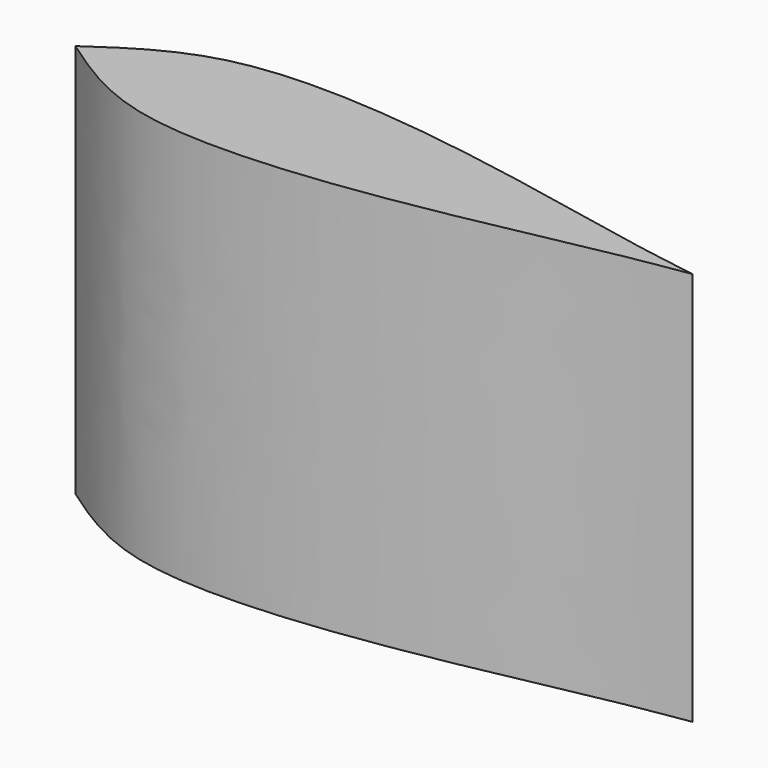
from build123d import *

# Parameters (mm, degrees)
F1_DEPTH = 80


with BuildPart() as f1:
    # F0 (on Top) → F1 (new body)
    with BuildSketch(Plane.XY):
        with BuildLine():
            add(Edge.make_bspline(
                [(-62.488052994, 0), (-55.7842902091, 4.641149541), (-39.9956720698, 15.5719268047), (7.4595234372, 11.2735993615), (44.2481001457, 2.9336430373), (57.4555526458, 0.8439100795), (62.7892017365, 0)],
                knots=[0, 0, 0, 0, 0.2264452899, 0.5333211103, 0.8115381119, 1, 1, 1, 1], degree=3))
            Line((-62.488052994, 0), (62.7892017365, 0))
        make_face()
        with BuildLine():
            Line((62.7892017365, 0), (-62.488052994, 0))
            add(Edge.make_bspline(
                [(-62.488052994, 0), (-55.7842902091, -4.641149541), (-39.9956720698, -15.5719268047), (7.4595234372, -11.2735993615), (44.2481001457, -2.9336430373), (57.4555526458, -0.8439100795), (62.7892017365, 0)],
                knots=[0, 0, 0, 0, 0.2264452899, 0.5333211103, 0.8115381119, 1, 1, 1, 1], degree=3))
        make_face()
    extrude(amount=F1_DEPTH)


solid = f1.part
